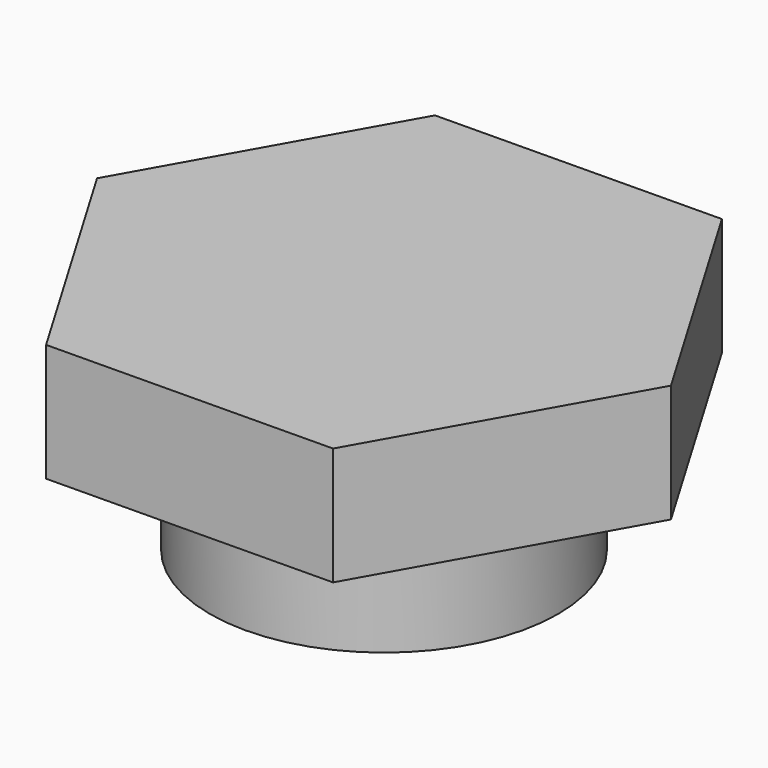
from build123d import *

# Parameters (mm, degrees)
F1_DEPTH = 25.4
F3_R     = 37.522701
F4_DEPTH = 25.4


with BuildPart() as f1:
    # F0 (on Top) → F1 (new body)
    with BuildSketch(Plane.XY):
        Polygon((31.231926, -52.767997), (61.314388, 0.663643), (30.082463, 53.431639), (-31.231926, 52.767997), (-61.314388, -0.663643), (-30.082463, -53.431639), align=None)
        Polygon((31.231926, -52.767997), (61.314388, 0.663643), (30.082463, 53.431639), (-31.231926, 52.767997), (-61.314388, -0.663643), (-30.082463, -53.431639), align=None)
    extrude(amount=F1_DEPTH)


with BuildPart() as f4:
    # F3 (on face) → F4 (new body)
    with BuildSketch(Plane(origin=(0, 0, 0), x_dir=(1, 0, 0), z_dir=(0, 0, -1))):
        Circle(F3_R)
    extrude(amount=F4_DEPTH)


solid = Compound([f1.part, f4.part])
